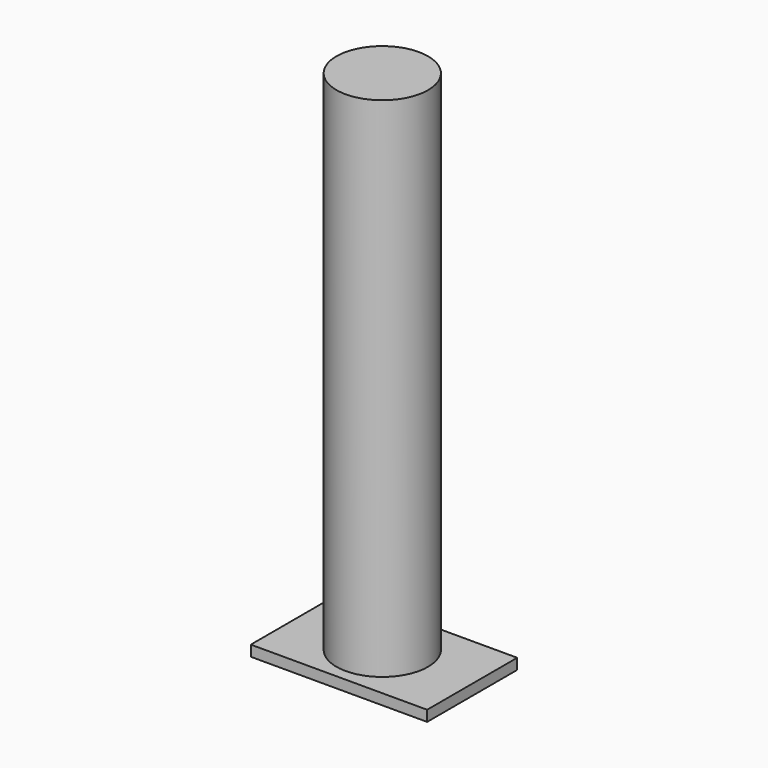
from build123d import *

# Parameters (mm, degrees)
F0_R     = 20.63148
F1_DEPTH = 228.6
F2_W     = 79.4004
F2_H     = 50.6984
F3_DEPTH = 4.826


with BuildPart() as f1:
    # F0 (on Top) → F1 (new body)
    with BuildSketch(Plane.XY):
        with Locations((-19.252421, 12.548608)):
            Circle(F0_R)
    extrude(amount=F1_DEPTH)

    # F2 (on Top) → F3 (join)
    with BuildSketch(Plane.XY):
        with Locations((-18.160351, 12.154622)):
            Rectangle(F2_W, F2_H)
    extrude(amount=-F3_DEPTH)


solid = f1.part
